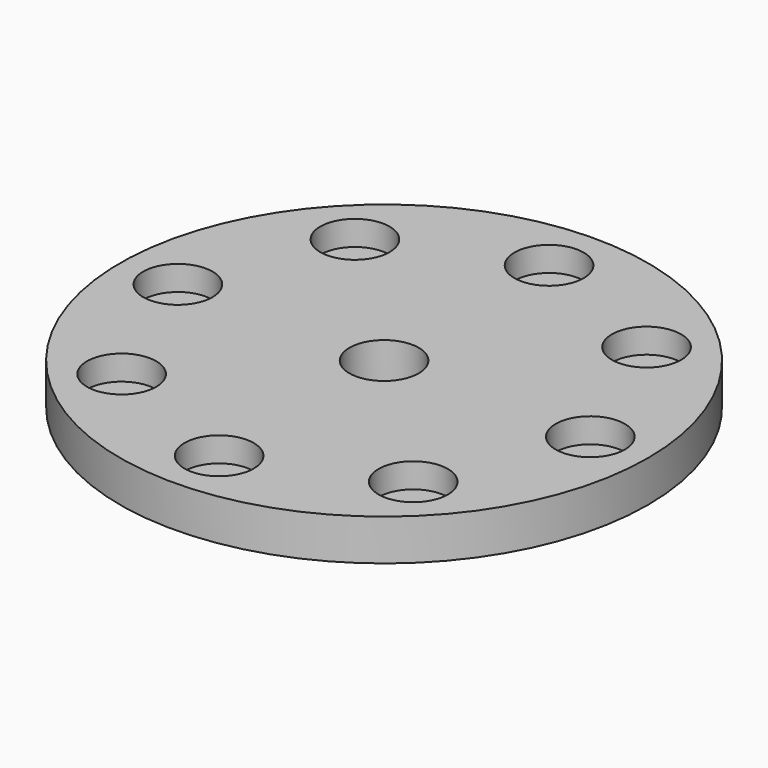
from build123d import *

# Parameters (mm, degrees)
F0_R     = 8
F1_DEPTH = 1.25
F2_R     = 1.05
F3_DEPTH = 25
F4_R     = 1.05
F5_DEPTH = 0.75


with BuildPart() as f1:
    # F0 (on Top) → F1 (new body)
    with BuildSketch(Plane.XY):
        Circle(F0_R)
    extrude(amount=F1_DEPTH)

    # F2 (on face) → F3 (cut)
    with BuildSketch(Plane.XY.offset(1.25)):
        Circle(F2_R)
    extrude(amount=-F3_DEPTH, mode=Mode.SUBTRACT)

    # F4 (on face) → F5 (cut)
    with BuildSketch(Plane.XY.offset(1.25)):
        with Locations((0, 6.25)):
            Circle(F4_R)
        with Locations((-4.419417, 4.419417)):
            Circle(F4_R)
        with Locations((-6.25, 0)):
            Circle(F4_R)
        with Locations((-4.419417, -4.419417)):
            Circle(F4_R)
        with Locations((0, -6.25)):
            Circle(F4_R)
        with Locations((4.419417, -4.419417)):
            Circle(F4_R)
        with Locations((6.25, 0)):
            Circle(F4_R)
        with Locations((4.419417, 4.419417)):
            Circle(F4_R)
    extrude(amount=-F5_DEPTH, mode=Mode.SUBTRACT)


solid = f1.part
